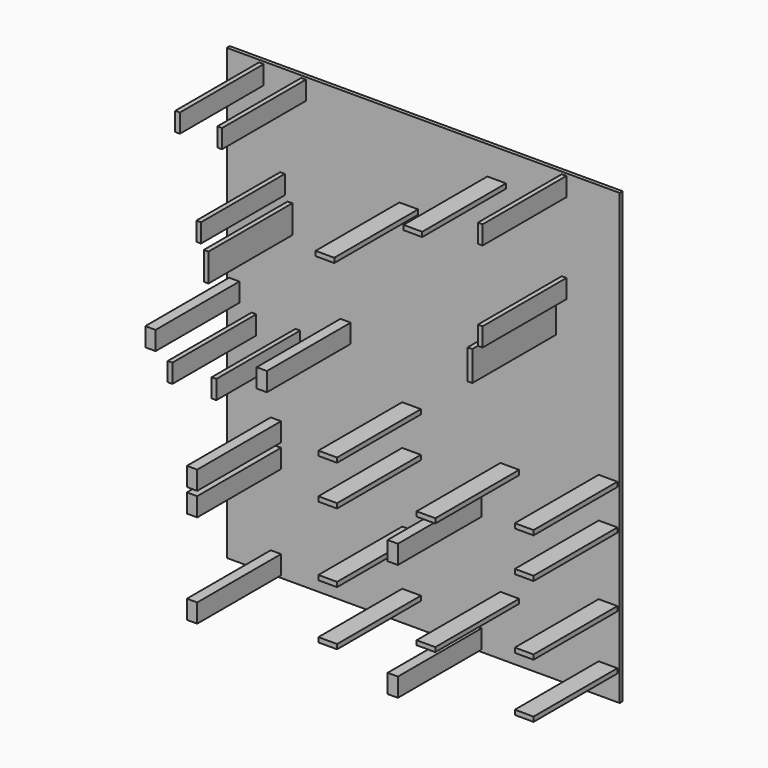
from build123d import *

# Parameters (mm, degrees)
F0_W     = 1333.5
F0_H     = 1524
F0_W_2   = 34.925
F0_H_2   = 63.5
F0_W_3   = 63.5
F0_H_3   = 15.875
F0_W_4   = 15.875
F0_H_4   = 15
F0_H_5   = 95.25
F0_W_5   = 184.15
F0_H_6   = 101.6
F1_DEPTH = 12.7
F2_START = 12.7
F2_DEPTH = 355.6


with BuildPart() as f1:
    # F0 (on Front) → F1 (new body)
    with BuildSketch(Plane.XZ):
        with Locations((666.75, 762)):
            Rectangle(F0_W, F0_H)
        with Locations((166.6875, 39.6875)):
            Rectangle(F0_W_2, F0_H_2, mode=Mode.SUBTRACT)
        with Locations((166.6875, 357.1875)):
            Rectangle(F0_W_2, F0_H_2, mode=Mode.SUBTRACT)
        with Locations((627.0625, 93.6625)):
            Rectangle(F0_W_3, F0_H_3, mode=Mode.SUBTRACT)
        with Locations((627.0625, 279.4)):
            Rectangle(F0_W_3, F0_H_3, mode=Mode.SUBTRACT)
        with Locations((166.6875, 436.5625)):
            Rectangle(F0_W_2, F0_H_2, mode=Mode.SUBTRACT)
        with Locations((92.075, 728.6625)):
            Rectangle(F0_W_4, F0_H_2, mode=Mode.SUBTRACT)
        with Locations((241.3, 728.6625)):
            Rectangle(F0_W_4, F0_H_2, mode=Mode.SUBTRACT)
        with Locations((627.0625, 514.35)):
            Rectangle(F0_W_3, F0_H_3, mode=Mode.SUBTRACT)
        with Locations((627.0625, 650.875)):
            Rectangle(F0_W_3, F0_H_3, mode=Mode.SUBTRACT)
        with Locations((847.725, 39.6875)):
            Rectangle(F0_W_2, F0_H_2, mode=Mode.SUBTRACT)
        with Locations((960.4375, 193.2375)):
            Rectangle(F0_W_3, F0_H_4, mode=Mode.SUBTRACT)
        with Locations((1293.8125, 93.6625)):
            Rectangle(F0_W_3, F0_H_3, mode=Mode.SUBTRACT)
        with Locations((1293.8125, 279.4)):
            Rectangle(F0_W_3, F0_H_3, mode=Mode.SUBTRACT)
        with Locations((847.725, 436.5625)):
            Rectangle(F0_W_2, F0_H_2, mode=Mode.SUBTRACT)
        with Locations((960.4375, 577.85)):
            Rectangle(F0_W_3, F0_H_3, mode=Mode.SUBTRACT)
        with Locations((1293.8125, 514.35)):
            Rectangle(F0_W_3, F0_H_3, mode=Mode.SUBTRACT)
        with Locations((1293.8125, 650.875)):
            Rectangle(F0_W_3, F0_H_3, mode=Mode.SUBTRACT)
        with Locations((25.4, 808.0375)):
            Rectangle(F0_W_2, F0_H_2, mode=Mode.SUBTRACT)
        with Locations((214.3125, 1084.2625)):
            Rectangle(F0_W_4, F0_H_5, mode=Mode.SUBTRACT)
        with Locations((403.225, 808.0375)):
            Rectangle(F0_W_2, F0_H_2, mode=Mode.SUBTRACT)
        with Locations((188.9125, 1179.5125)):
            Rectangle(F0_W_4, F0_H_2, mode=Mode.SUBTRACT)
        with Locations((117.475, 1484.3125)):
            Rectangle(F0_W_4, F0_H_2, mode=Mode.SUBTRACT)
        with Locations((260.35, 1484.3125)):
            Rectangle(F0_W_4, F0_H_2, mode=Mode.SUBTRACT)
        with Locations((617.5375, 1244.6)):
            Rectangle(F0_W_3, F0_H_3, mode=Mode.SUBTRACT)
        with Locations((477.8375, 1406.525)):
            Rectangle(F0_W_5, F0_H_3, mode=Mode.SUBTRACT)
        with Locations((1109.6625, 1081.0875)):
            Rectangle(F0_W_4, F0_H_6, mode=Mode.SUBTRACT)
        with Locations((915.9875, 1419.225)):
            Rectangle(F0_W_3, F0_H_3, mode=Mode.SUBTRACT)
        with Locations((1144.5875, 1179.5125)):
            Rectangle(F0_W_4, F0_H_2, mode=Mode.SUBTRACT)
        with Locations((1144.5875, 1484.3125)):
            Rectangle(F0_W_4, F0_H_2, mode=Mode.SUBTRACT)
        with Locations((477.8375, 1406.525)):
            Rectangle(F0_W_5, F0_H_3)
        with Locations((166.6875, 39.6875)):
            Rectangle(F0_W_2, F0_H_2)
        with Locations((847.725, 39.6875)):
            Rectangle(F0_W_2, F0_H_2)
        with Locations((166.6875, 357.1875)):
            Rectangle(F0_W_2, F0_H_2)
        with Locations((166.6875, 436.5625)):
            Rectangle(F0_W_2, F0_H_2)
        with Locations((847.725, 436.5625)):
            Rectangle(F0_W_2, F0_H_2)
        with Locations((403.225, 808.0375)):
            Rectangle(F0_W_2, F0_H_2)
        with Locations((25.4, 808.0375)):
            Rectangle(F0_W_2, F0_H_2)
        with Locations((1109.6625, 1081.0875)):
            Rectangle(F0_W_4, F0_H_6)
        with Locations((214.3125, 1084.2625)):
            Rectangle(F0_W_4, F0_H_5)
        with Locations((627.0625, 93.6625)):
            Rectangle(F0_W_3, F0_H_3)
        with Locations((627.0625, 279.4)):
            Rectangle(F0_W_3, F0_H_3)
        with Locations((1293.8125, 93.6625)):
            Rectangle(F0_W_3, F0_H_3)
        with Locations((1293.8125, 279.4)):
            Rectangle(F0_W_3, F0_H_3)
        with Locations((627.0625, 514.35)):
            Rectangle(F0_W_3, F0_H_3)
        with Locations((960.4375, 577.85)):
            Rectangle(F0_W_3, F0_H_3)
        with Locations((1293.8125, 514.35)):
            Rectangle(F0_W_3, F0_H_3)
        with Locations((1293.8125, 650.875)):
            Rectangle(F0_W_3, F0_H_3)
        with Locations((627.0625, 650.875)):
            Rectangle(F0_W_3, F0_H_3)
        with Locations((92.075, 728.6625)):
            Rectangle(F0_W_4, F0_H_2)
        with Locations((241.3, 728.6625)):
            Rectangle(F0_W_4, F0_H_2)
        with Locations((188.9125, 1179.5125)):
            Rectangle(F0_W_4, F0_H_2)
        with Locations((117.475, 1484.3125)):
            Rectangle(F0_W_4, F0_H_2)
        with Locations((260.35, 1484.3125)):
            Rectangle(F0_W_4, F0_H_2)
        with Locations((617.5375, 1244.6)):
            Rectangle(F0_W_3, F0_H_3)
        with Locations((915.9875, 1419.225)):
            Rectangle(F0_W_3, F0_H_3)
        with Locations((1144.5875, 1484.3125)):
            Rectangle(F0_W_4, F0_H_2)
        with Locations((1144.5875, 1179.5125)):
            Rectangle(F0_W_4, F0_H_2)
        with Locations((960.4375, 193.2375)):
            Rectangle(F0_W_3, F0_H_4)
    extrude(amount=F1_DEPTH)

    # F0 (on Front) → F2 (join)
    with BuildSketch(Plane.XZ.offset(F2_START)):
        with Locations((1144.5875, 1484.3125)):
            Rectangle(F0_W_4, F0_H_2)
        with Locations((1144.5875, 1179.5125)):
            Rectangle(F0_W_4, F0_H_2)
        with Locations((1109.6625, 1081.0875)):
            Rectangle(F0_W_4, F0_H_6)
        with Locations((915.9875, 1419.225)):
            Rectangle(F0_W_3, F0_H_3)
        with Locations((617.5375, 1244.6)):
            Rectangle(F0_W_3, F0_H_3)
        with Locations((188.9125, 1179.5125)):
            Rectangle(F0_W_4, F0_H_2)
        with Locations((260.35, 1484.3125)):
            Rectangle(F0_W_4, F0_H_2)
        with Locations((117.475, 1484.3125)):
            Rectangle(F0_W_4, F0_H_2)
        with Locations((25.4, 808.0375)):
            Rectangle(F0_W_2, F0_H_2)
        with Locations((214.3125, 1084.2625)):
            Rectangle(F0_W_4, F0_H_5)
        with Locations((403.225, 808.0375)):
            Rectangle(F0_W_2, F0_H_2)
        with Locations((241.3, 728.6625)):
            Rectangle(F0_W_4, F0_H_2)
        with Locations((92.075, 728.6625)):
            Rectangle(F0_W_4, F0_H_2)
        with Locations((166.6875, 436.5625)):
            Rectangle(F0_W_2, F0_H_2)
        with Locations((627.0625, 514.35)):
            Rectangle(F0_W_3, F0_H_3)
        with Locations((627.0625, 650.875)):
            Rectangle(F0_W_3, F0_H_3)
        with Locations((960.4375, 577.85)):
            Rectangle(F0_W_3, F0_H_3)
        with Locations((847.725, 436.5625)):
            Rectangle(F0_W_2, F0_H_2)
        with Locations((1293.8125, 514.35)):
            Rectangle(F0_W_3, F0_H_3)
        with Locations((1293.8125, 650.875)):
            Rectangle(F0_W_3, F0_H_3)
        with Locations((1293.8125, 93.6625)):
            Rectangle(F0_W_3, F0_H_3)
        with Locations((1293.8125, 279.4)):
            Rectangle(F0_W_3, F0_H_3)
        with Locations((960.4375, 193.2375)):
            Rectangle(F0_W_3, F0_H_4)
        with Locations((847.725, 39.6875)):
            Rectangle(F0_W_2, F0_H_2)
        with Locations((627.0625, 93.6625)):
            Rectangle(F0_W_3, F0_H_3)
        with Locations((627.0625, 279.4)):
            Rectangle(F0_W_3, F0_H_3)
        with Locations((166.6875, 39.6875)):
            Rectangle(F0_W_2, F0_H_2)
        with Locations((166.6875, 357.1875)):
            Rectangle(F0_W_2, F0_H_2)
    extrude(amount=F2_DEPTH)


solid = f1.part
